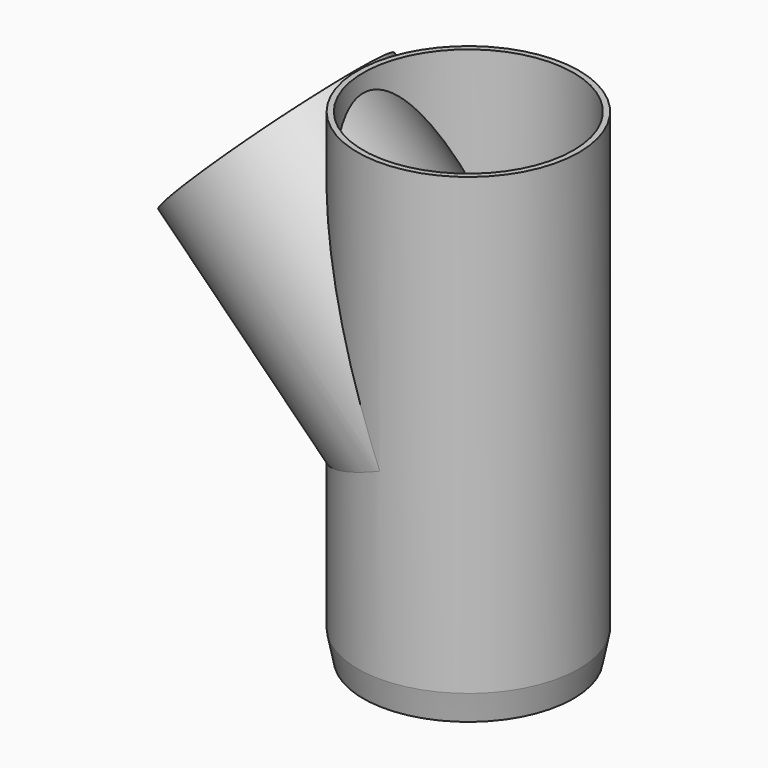
from build123d import *

# Parameters (mm, degrees)
F0_R     = 37.5
F1_DEPTH = 164
F6_R     = 35.6
F7_DEPTH = 164.001
F8_R     = 35.6
F9_DEPTH = 92


with BuildPart() as f1:
    # F0 (on Top) → F1 (new body)
    with BuildSketch(Plane.XY):
        Circle(F0_R)
    extrude(amount=F1_DEPTH)

    # F2 (on Front) → F3 (revolve)
    with BuildSketch(Plane.XZ):
        Polygon((-91.570328, 110.53732), (-26.516504, 45.483496), (0, 72), (-1.411097, 73.411097), (-65.053824, 137.053824), align=None)
    revolve(axis=Axis((-28.26866, 0, 100.26866), (-0.707107, 0, 0.707107)))

    # F4 (on Front) → F5 (revolve, cut)
    with BuildSketch(Plane.XZ):
        Polygon((35.5, 0), (37.5, 0), (37.5, 10), align=None)
    revolve(axis=Axis((0, 0, 0.030611), (0, 0, 1)), mode=Mode.SUBTRACT)

    # F6 (on face) → F7 (cut, through all)
    with BuildSketch(Plane(origin=(0, 0, 0), x_dir=(1, 0, 0), z_dir=(0, 0, -1))):
        Circle(F6_R)
    extrude(amount=-F7_DEPTH, mode=Mode.SUBTRACT)

    # F8 (on face) → F9 (cut)
    with BuildSketch(Plane(origin=(-101.053824, 0, 101.053824), x_dir=(0, -1, 0), z_dir=(-0.707107, 0, 0.707107))):
        with Locations((0, 50.911688)):
            Circle(F8_R)
    extrude(amount=-F9_DEPTH, mode=Mode.SUBTRACT)


solid = f1.part
